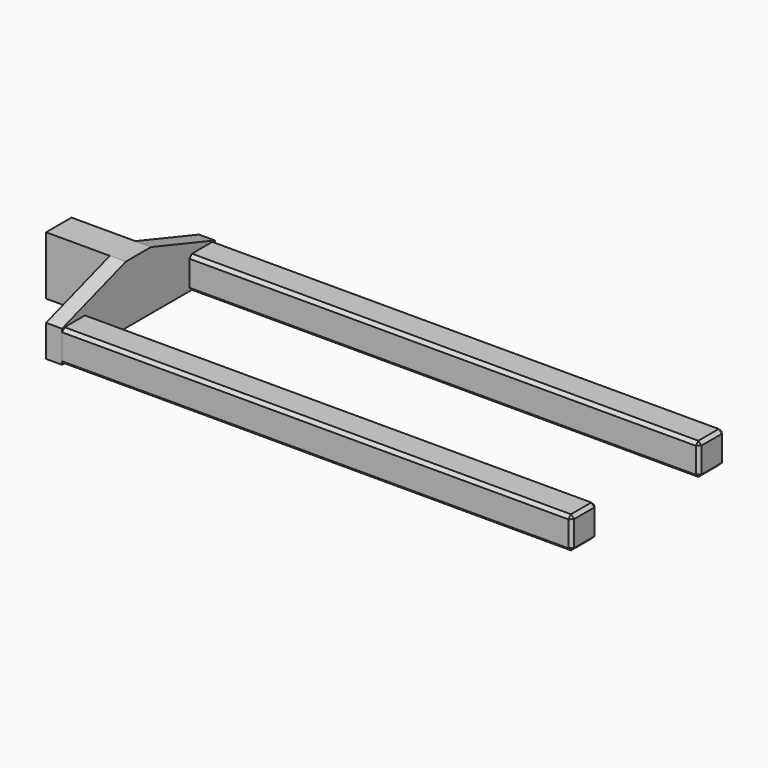
from build123d import *

# Parameters (mm, degrees)
F0_W     = 800
F0_H     = 50
F1_DEPTH = 50
F2_W     = 50
F2_H     = 50
F3_DEPTH = 25
F5_DEPTH = 100
F6_SIZE  = 5


with BuildPart() as f1:
    # F0 (on Top) → F1 (new body)
    with BuildSketch(Plane.XY):
        with Locations((400, -125)):
            Rectangle(F0_W, F0_H)
        with Locations((400, 125)):
            Rectangle(F0_W, F0_H)
    extrude(amount=F1_DEPTH)

    # F6
    f6_edges = [f1.edges().sort_by_distance(p)[0] for p in [
        (400, 100, 50),
        (400, -100, 50),
        (800, -125, 50),
        (800, 125, 50),
        (400, -150, 50),
        (400, 150, 50),
        (800, -150, 25),
        (800, -100, 25),
        (800, 100, 25),
        (800, 150, 25),
        (400, 100, 0),
        (400, -150, 0),
        (400, -100, 0),
        (400, 150, 0),
        (800, 125, 0),
        (800, -125, 0),
    ]]
    chamfer(f6_edges, length=F6_SIZE)


with BuildPart() as f3:
    # F2 (on face) → F3 (new body)
    with BuildSketch(Plane(origin=(0, 0, 0), x_dir=(0, -1, 0), z_dir=(-1, 0, 0))):
        Polygon((-100, 0), (0, 0), (150, 0), (150, 50), (24.721108, 91.761224), (0, 91.761224), (-24.721108, 91.761224), (-150, 50), (-100, 50), align=None)
        with Locations((-125, 25)):
            Rectangle(F2_W, F2_H)
    extrude(amount=F3_DEPTH)

    # F4 (on face) → F5 (join)
    with BuildSketch(Plane(origin=(-25, 0, 0), x_dir=(0, -1, 0), z_dir=(-1, 0, 0))):
        Polygon((-25, 91.761224), (-25, 91.668256), (-24.721108, 91.761224), align=None)
        Polygon((-25, 0), (0, 0), (25, 0), (25, 91.668256), (24.721108, 91.761224), (0, 91.761224), (-24.721108, 91.761224), (-25, 91.668256), align=None)
        Polygon((24.721108, 91.761224), (25, 91.668256), (25, 91.761224), align=None)
    extrude(amount=F5_DEPTH)


solid = Compound([f1.part, f3.part])
